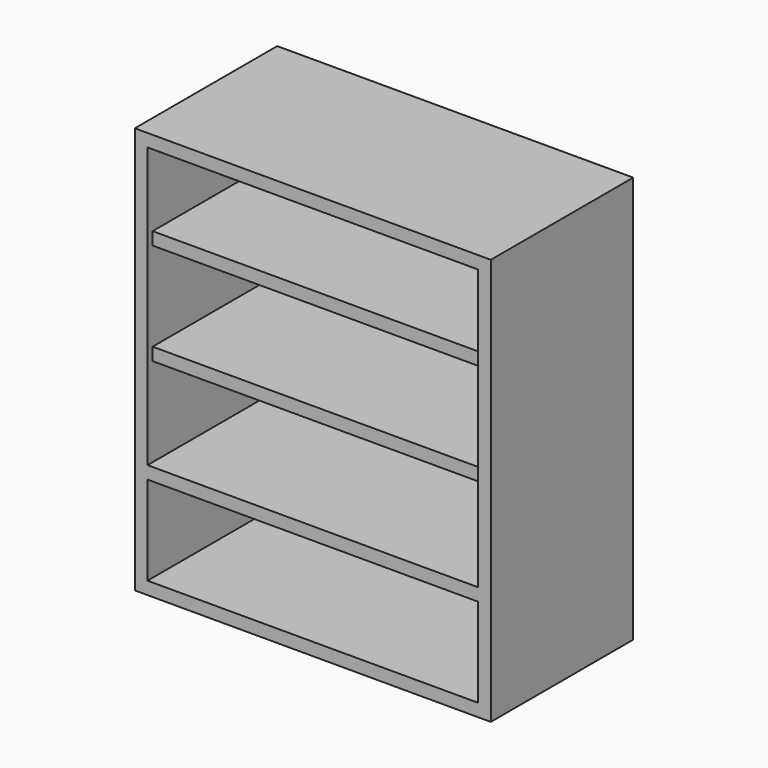
from build123d import *

# Parameters (mm, degrees)
F0_W      = 70
F0_H      = 35
F1_DEPTH  = 80
F2_T      = -2.5
F4_W      = 65
F4_H      = 32.5
F5_DEPTH  = 2.5
F7_W      = 65
F7_H      = 32.5
F8_DEPTH  = 2.5
F10_W     = 65
F10_H     = 32.5
F11_DEPTH = 2.5


with BuildPart() as f1:
    # F0 (on Top) → F1 (new body)
    with BuildSketch(Plane.XY):
        Rectangle(F0_W, F0_H)
    extrude(amount=F1_DEPTH)

    # F2
    f2_openings = [f1.faces().sort_by_distance(p)[0] for p in [
        (0, -17.5, 40),
    ]]
    offset(amount=F2_T, openings=f2_openings)

    # F4 (on offset) → F5 (join)
    with BuildSketch(Plane.XY.offset(20)):
        with Locations((0, -1.25)):
            Rectangle(F4_W, F4_H)
    extrude(amount=F5_DEPTH)

    # F7 (on offset) → F8 (join)
    with BuildSketch(Plane.XY.offset(40)):
        Rectangle(F7_W, F7_H)
    extrude(amount=F8_DEPTH)

    # F10 (on offset) → F11 (join)
    with BuildSketch(Plane.XY.offset(60)):
        Rectangle(F10_W, F10_H)
    extrude(amount=F11_DEPTH)


solid = f1.part
